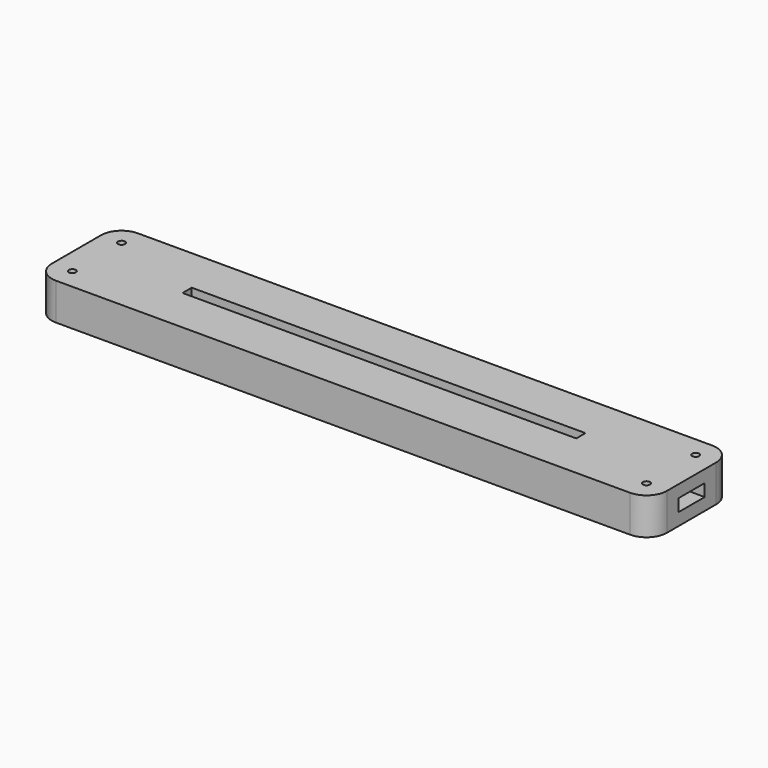
from build123d import *

# Parameters (mm, degrees)
SKETCH_W              = 150
SKETCH_H              = 25
PAD_DEPTH             = 3
PAD001_DEPTH          = 3
SKETCH004_W           = 150
SKETCH004_H           = 25
SKETCH004_W_2         = 96
SKETCH004_H_2         = 2.8
PAD002_DEPTH          = 3
SKETCH005_R           = 0.85
POCKET_DEPTH          = 313.671314
POLARPATTERN_COUNT    = 2
POLARPATTERN001_COUNT = 2
POLARPATTERN002_COUNT = 2
FILLET_R              = 5


with BuildPart() as part:
    # Sketch → Pad (new body)
    with BuildSketch(Plane.XY):
        Rectangle(SKETCH_W, SKETCH_H)
    extrude(amount=PAD_DEPTH)

    # Sketch001 (on Face6 of Pad) → Pad001 (join)
    with BuildSketch(Plane.XY.offset(3)):
        Polygon((-75, 12.5), (75, 12.5), (75, 4), (50, 4), (50, 5), (-50, 5), (-50, 4), (-52.25, 4), (-52.25, 9.2), (-72.25, 9.2), (-72.25, 4.5), (-75, 4.5), align=None)
        Polygon((-75, -12.5), (75, -12.5), (75, -4), (50, -4), (50, -5), (-50, -5), (-50, -4), (-52.25, -4), (-52.25, -9.2), (-72.25, -9.2), (-72.25, -4.5), (-75, -4.5), align=None)
    extrude(amount=PAD001_DEPTH)

    # Sketch004 (on Face12 of Pad001) → Pad002 (join)
    with BuildSketch(Plane.XY.offset(6)):
        Rectangle(SKETCH004_W, SKETCH004_H)
        Rectangle(SKETCH004_W_2, SKETCH004_H_2, mode=Mode.SUBTRACT)
    extrude(amount=PAD002_DEPTH)

    # Sketch005 (on Face34 of Pad002) → Pocket (cut, through all)
    with BuildSketch(Plane.XY.offset(9)):
        with Locations((-70, 7.5)):
            Circle(SKETCH005_R)
    pocket = extrude(amount=-POCKET_DEPTH, mode=Mode.SUBTRACT)

    # PolarPattern: Pocket ×2 about axis
    polarpattern_axis = Axis((0, 0, 9), (0, 0, 1))
    for i in range(1, POLARPATTERN_COUNT):
        add(pocket.rotate(polarpattern_axis, i * 360 / POLARPATTERN_COUNT), mode=Mode.SUBTRACT)

    # PolarPattern001: Pocket ×2 about axis
    polarpattern001_axis = Axis((0, 0, 0), (0, 1, 0))
    for i in range(1, POLARPATTERN001_COUNT):
        add(pocket.rotate(polarpattern001_axis, i * 360 / POLARPATTERN001_COUNT), mode=Mode.SUBTRACT)

    # PolarPattern002: Pocket ×2 about axis
    polarpattern002_axis = Axis((0, 0, 0), (1, 0, 0))
    for i in range(1, POLARPATTERN002_COUNT):
        add(pocket.rotate(polarpattern002_axis, i * 360 / POLARPATTERN002_COUNT), mode=Mode.SUBTRACT)

    # Fillet
    fillet_edges = [part.edges().sort_by_distance(p)[0] for p in [
        (75, -12.5, 7.5),
        (75, 12.5, 7.5),
        (-75, -12.5, 7.5),
        (-75, 12.5, 7.5),
    ]]
    fillet(fillet_edges, radius=FILLET_R)


solid = part.part
